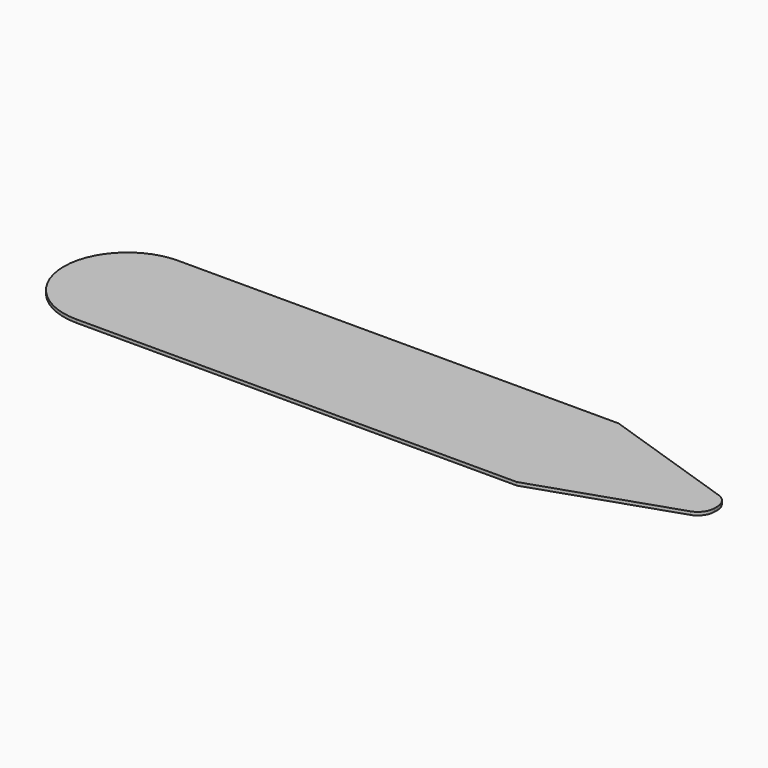
from build123d import *

# Parameters (mm, degrees)
PAD_DEPTH = 0.3
FILLET_R  = 1.6


with BuildPart() as part:
    # Sketch → Pad (new body)
    with BuildSketch(Plane.XY):
        with BuildLine():
            Line((-41.6, 6), (0, 6))
            Line((0, 6), (14, 1.3))
            Line((14, 1.3), (14, -1.3))
            Line((14, -1.3), (0, -6))
            Line((0, -6), (-41.6, -6))
            ThreePointArc((-41.6, 6), (-47.600033, 0), (-41.6, -6))
        make_face()
    extrude(amount=PAD_DEPTH)

    # Fillet
    fillet_edges = [part.edges().sort_by_distance(p)[0] for p in [
        (14, -1.3, 0.15),
        (14, 1.3, 0.15),
    ]]
    fillet(fillet_edges, radius=FILLET_R)


solid = part.part
